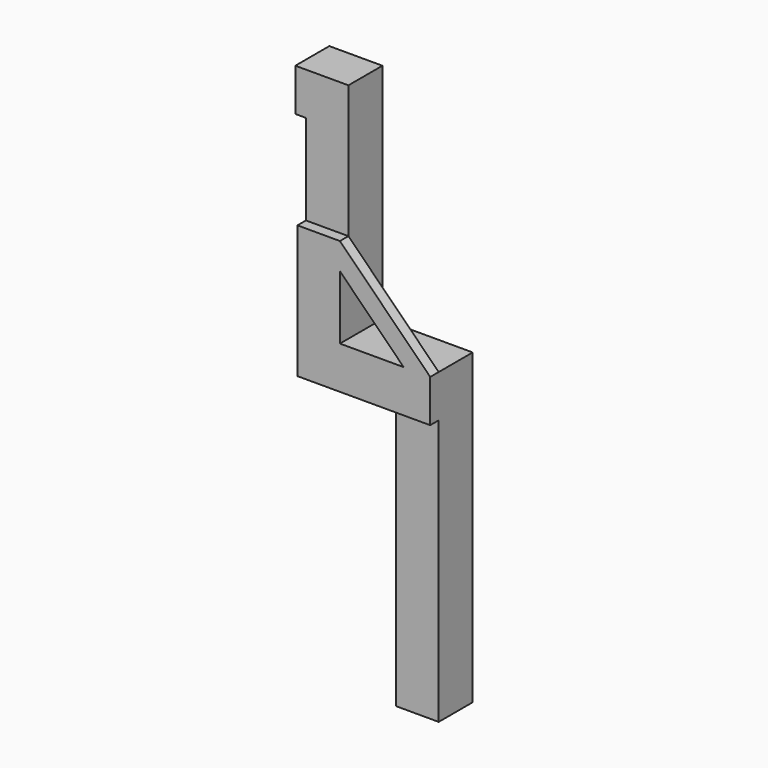
from build123d import *

# Parameters (mm, degrees)
PAD_DEPTH    = 16
PAD001_DEPTH = 4
SKETCH002_R  = 4
POCKET_DEPTH = 16.001
SKETCH003_W  = 16
SKETCH003_H  = 16
PAD002_DEPTH = 4


with BuildPart() as part:
    # Sketch → Pad (new body)
    with BuildSketch(Plane.XZ):
        Polygon((0, 0), (0, 100), (16, 100), (16, 16), (50, 16), (50, -100), (34, -100), (34, 0), align=None)
    extrude(amount=PAD_DEPTH)

    # Sketch001 (on Face10 of Pad) → Pad001 (join)
    with BuildSketch(Plane.XZ.offset(16)):
        Polygon((0, 0), (50, 0), (50, 16), (16, 50), (0, 50), align=None)
        Polygon((16, 16), (40, 16), (16, 40), align=None, mode=Mode.SUBTRACT)
    extrude(amount=PAD001_DEPTH)

    # Sketch002 (on Face14 of Pad001) → Pocket (cut, through all)
    with BuildSketch(Plane(origin=(16, 0, 0), x_dir=(0, 0, 1), z_dir=(1, 0, 0))):
        with Locations((30, 8)):
            Circle(SKETCH002_R)
    extrude(amount=-POCKET_DEPTH, mode=Mode.SUBTRACT)

    # Sketch003 (on Face2 of Pocket) → Pad002 (join)
    with BuildSketch(Plane(origin=(0, 0, 0), x_dir=(0, 0, -1), z_dir=(-1, 0, 0))):
        with Locations((-92, 8)):
            Rectangle(SKETCH003_W, SKETCH003_H)
    extrude(amount=PAD002_DEPTH)


solid = part.part
